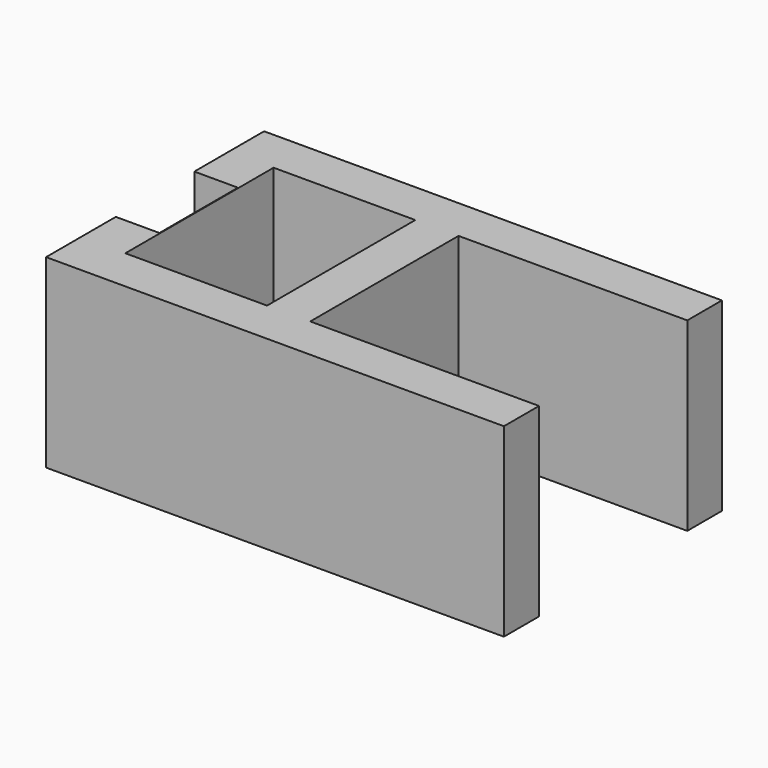
from build123d import *

# Parameters (mm, degrees)
SKETCH_W        = 42
SKETCH_H        = 25
PAD_DEPTH       = 17
SKETCH001_W     = 21
SKETCH001_H     = 17
POCKET_DEPTH    = 17
SKETCH002_W     = 13
SKETCH002_H     = 17
POCKET001_DEPTH = 17
SKETCH003_W     = 4
SKETCH003_H     = 9
POCKET002_DEPTH = 17


with BuildPart() as part:
    # Sketch → Pad (new body)
    with BuildSketch(Plane.XY):
        with Locations((21, 12.5)):
            Rectangle(SKETCH_W, SKETCH_H)
    extrude(amount=PAD_DEPTH)

    # Sketch001 (on Face6 of Pad) → Pocket (cut)
    with BuildSketch(Plane.XY.offset(17)):
        with Locations((31.512325, 12.527822)):
            Rectangle(SKETCH001_W, SKETCH001_H)
    extrude(amount=-POCKET_DEPTH, mode=Mode.SUBTRACT)

    # Sketch002 (on Face5 of Pocket) → Pocket001 (cut)
    with BuildSketch(Plane.XY.offset(17)):
        with Locations((10.560065, 12.513164)):
            Rectangle(SKETCH002_W, SKETCH002_H)
    extrude(amount=-POCKET001_DEPTH, mode=Mode.SUBTRACT)

    # Sketch003 (on Face5 of Pocket001) → Pocket002 (cut)
    with BuildSketch(Plane.XY.offset(17)):
        with Locations((2, 12.497126)):
            Rectangle(SKETCH003_W, SKETCH003_H)
    extrude(amount=-POCKET002_DEPTH, mode=Mode.SUBTRACT)


solid = part.part
